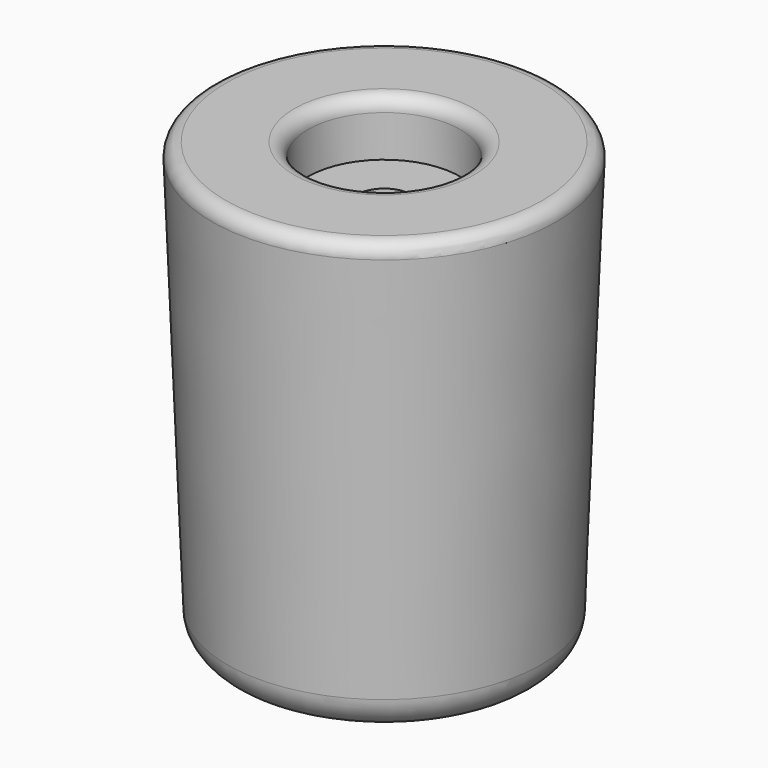
from build123d import *

# Parameters (mm, degrees)
POCKET_DEPTH    = 8
SKETCH003_R     = 3.95
POCKET001_DEPTH = 64.001
SKETCH004_R     = 11
POCKET002_DEPTH = 8
FILLET_R        = 2
FILLET001_R     = 5


with BuildPart() as part:
    # Sketch → Revolution (revolve)
    with BuildSketch(Plane.XZ):
        Polygon((0, 0), (22.5, 0), (25, 64), (0, 64), align=None)
    revolve(axis=Axis((0, 0, 0), (0, 0, 1)))

    # Sketch002 (on Face1 of Revolution) → Pocket (cut)
    with BuildSketch(Plane(origin=(0, 0, 0), x_dir=(1, 0, 0), z_dir=(0, 0, -1))):
        Polygon((7.3, 0), (3.65, 6.321985), (-3.65, 6.321985), (-7.3, 0), (-3.65, -6.321985), (3.65, -6.321985), align=None)
    extrude(amount=-POCKET_DEPTH, mode=Mode.SUBTRACT)

    # Sketch003 (on Face1 of Pocket) → Pocket001 (cut, through all)
    with BuildSketch(Plane(origin=(0, 0, 0), x_dir=(1, 0, 0), z_dir=(0, 0, -1))):
        Circle(SKETCH003_R)
    extrude(amount=-POCKET001_DEPTH, mode=Mode.SUBTRACT)

    # Sketch004 (on Face9 of Pocket001) → Pocket002 (cut)
    with BuildSketch(Plane(origin=(0, 0, 64), x_dir=(-1, 0, 0), z_dir=(0, 0, 1))):
        Circle(SKETCH004_R)
    extrude(amount=-POCKET002_DEPTH, mode=Mode.SUBTRACT)

    # Fillet
    fillet_edges = [part.edges().sort_by_distance(p)[0] for p in [
        (-25, 0, 64),
        (11, 0, 64),
    ]]
    fillet(fillet_edges, radius=FILLET_R)

    # Fillet001
    fillet001_edges = [part.edges().sort_by_distance(p)[0] for p in [
        (-22.5, 0, 0),
    ]]
    fillet(fillet001_edges, radius=FILLET001_R)


solid = part.part
